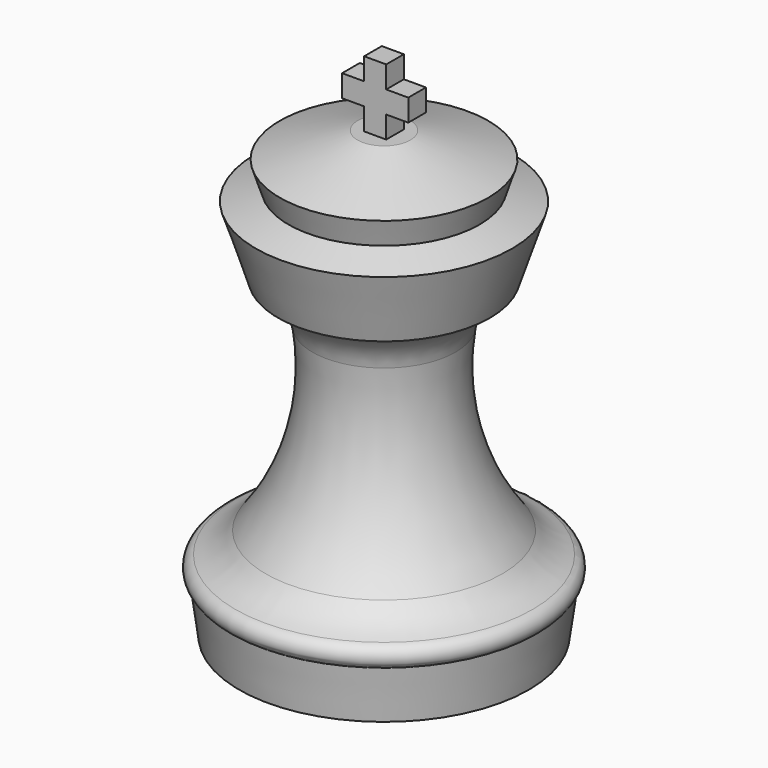
from build123d import *

# Parameters (mm, degrees)
F2_DEPTH = 1.27


with BuildPart() as f1:
    # F0 (on Front) → F1 (revolve)
    with BuildSketch(Plane.XZ):
        with BuildLine():
            Line((-10.8595, 23.176616), (-10.8595, -28.108846))
            Line((-10.8595, -28.108846), (5.828938, -28.108846))
            Line((5.828938, -28.108846), (6.631959, -22.209617))
            ThreePointArc((6.631959, -22.209617), (7.2054, -20.8997), (6.279642, -19.809889))
            ThreePointArc((6.279642, -19.809889), (4.337177, -18.849044), (2.768878, -17.35344))
            ThreePointArc((2.768878, -17.35344), (-2.043012, -7.543205), (-2.61231, 3.368755))
            ThreePointArc((-2.61231, 3.368755), (-1.297535, 6.30196), (1.343976, 8.133555))
            Line((1.343976, 8.133555), (3.905977, 15.989157))
            Line((3.905977, 15.989157), (0.153749, 17.212897))
            Line((0.153749, 17.212897), (1.144844, 20.251788))
            Line((1.144844, 20.251788), (-7.823259, 23.176616))
            Line((-7.823259, 23.176616), (-9.5895, 23.176616))
            Line((-9.5895, 23.176616), (-10.8595, 23.176616))
        make_face()
    revolve(axis=Axis((-10.8595, 0, -2.466115), (0, 0, 1)))

    # F0 (on Front) → F2 (join, symmetric)
    with BuildSketch(Plane.XZ):
        Polygon((-12.1295, 23.176616), (-10.8595, 23.176616), (-9.5895, 23.176616), (-9.5895, 25.716616), (-7.0495, 25.716616), (-7.0495, 28.256616), (-9.5895, 28.256616), (-9.5895, 30.796616), (-10.8595, 30.796616), (-12.1295, 30.796616), (-12.1295, 28.256616), (-14.6695, 28.256616), (-14.6695, 25.716616), (-12.1295, 25.716616), align=None)
    extrude(amount=F2_DEPTH, both=True)


solid = f1.part
